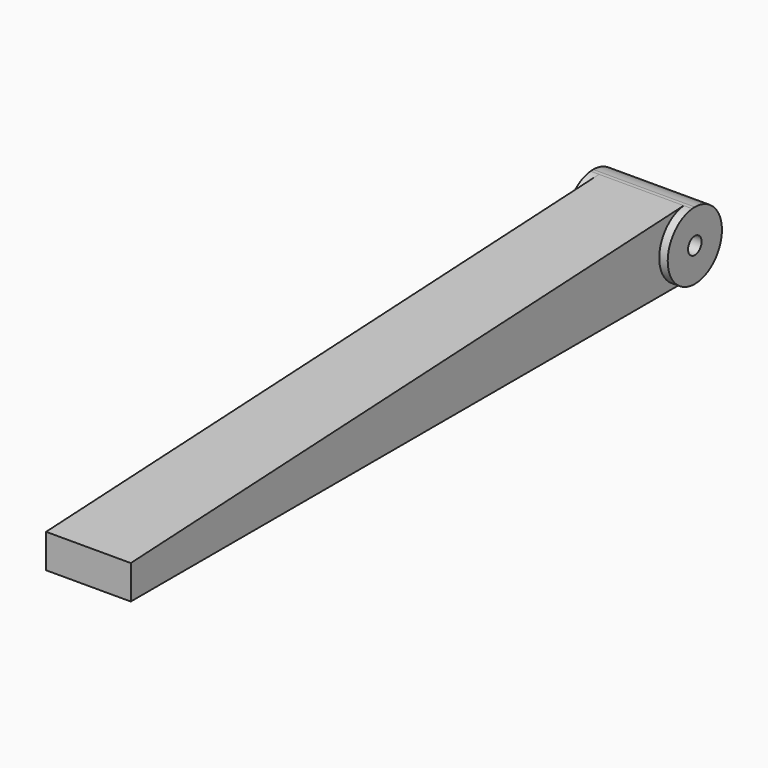
from build123d import *

# Parameters (mm, degrees)
F0_R          = 2.5
F1_DEPTH      = 15
F1_DEPTH_BACK = 15
F2_DEPTH      = 12.5
F2_DEPTH_BACK = 12.5
F4_DEPTH      = 5
F6_DEPTH      = 40.001


with BuildPart() as f1:
    # F0 (on Right) → F1 (new body, two sides)
    with BuildSketch(Plane.YZ) as f1_sk:
        with BuildLine():
            ThreePointArc((97.5, -10), (104.571068, -7.071068), (107.5, 0))
            ThreePointArc((107.5, 0), (104.571068, 7.071068), (97.5, 10))
            Line((97.5, 10), (96.526706, 9.952522))
            ThreePointArc((96.526706, 9.952522), (87.511876, -0.487226), (97.5, -10))
        make_face()
        with Locations((97.5, 0)):
            Circle(F0_R, mode=Mode.SUBTRACT)
    extrude(amount=F1_DEPTH)
    extrude(f1_sk.sketch, amount=-F1_DEPTH_BACK)

    # F0 (on Right) → F2 (join, two sides)
    with BuildSketch(Plane.YZ) as f2_sk:
        with BuildLine():
            Line((-107.5, -10), (97.5, -10))
            ThreePointArc((97.5, -10), (87.511876, -0.487226), (96.526706, 9.952522))
            Line((96.526706, 9.952522), (-107.5, 0))
            Line((-107.5, 0), (-107.5, -10))
        make_face()
    extrude(amount=F2_DEPTH)
    extrude(f2_sk.sketch, amount=-F2_DEPTH_BACK)

    # F3 (on face) → F4 (cut)
    with BuildSketch(Plane(origin=(0, 0, -10), x_dir=(1, 0, 0), z_dir=(0, 0, -1))):
        Polygon((9, -67.5), (9, 105), (-9, 105), (-9, -67.5), (0, -67.5), align=None)
    extrude(amount=-F4_DEPTH, mode=Mode.SUBTRACT)

    # F5 (on face) → F6 (cut, through all)
    with BuildSketch(Plane.XZ.offset(-67.5)):
        Polygon((-1, -10), (0, -10), (1, -10), (1, -5), (0, -5), (-1, -5), align=None)
    extrude(amount=-F6_DEPTH, mode=Mode.SUBTRACT)


solid = f1.part
